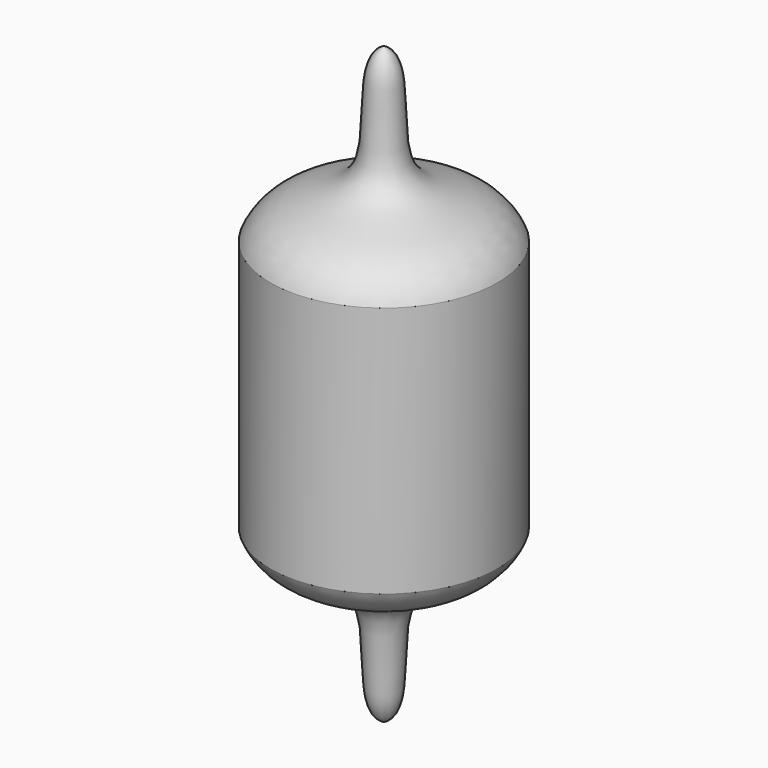
from build123d import *


with BuildPart() as f1:
    # F0 (on Front) → F1 (revolve)
    with BuildSketch(Plane.XZ):
        with BuildLine():
            Line((-14.413222584, 16), (-14.413222584, 0))
            Line((-14.413222584, 0), (-14.413222584, -16))
            add(Edge.make_bspline(
                [(-14.413222584, -16), (-12.1517050073, -21.5333060846), (1.3201873331, -19.2803287909), (-3.5556030925, -36.4778451622), (0, -37.7947352827)],
                knots=[0, 0, 0, 0, 0.497053147, 1, 1, 1, 1], degree=3))
            Line((0, -37.7947352827), (0, 37.7947352827))
            add(Edge.make_bspline(
                [(-14.413222584, 16), (-12.1517050073, 21.5333060846), (1.3201873331, 19.2803287909), (-3.5556030925, 36.4778451622), (0, 37.7947352827)],
                knots=[0, 0, 0, 0, 0.497053147, 1, 1, 1, 1], degree=3))
        make_face()
    revolve(axis=Axis((0, 0, 0), (0, 0, -1)))


solid = f1.part
